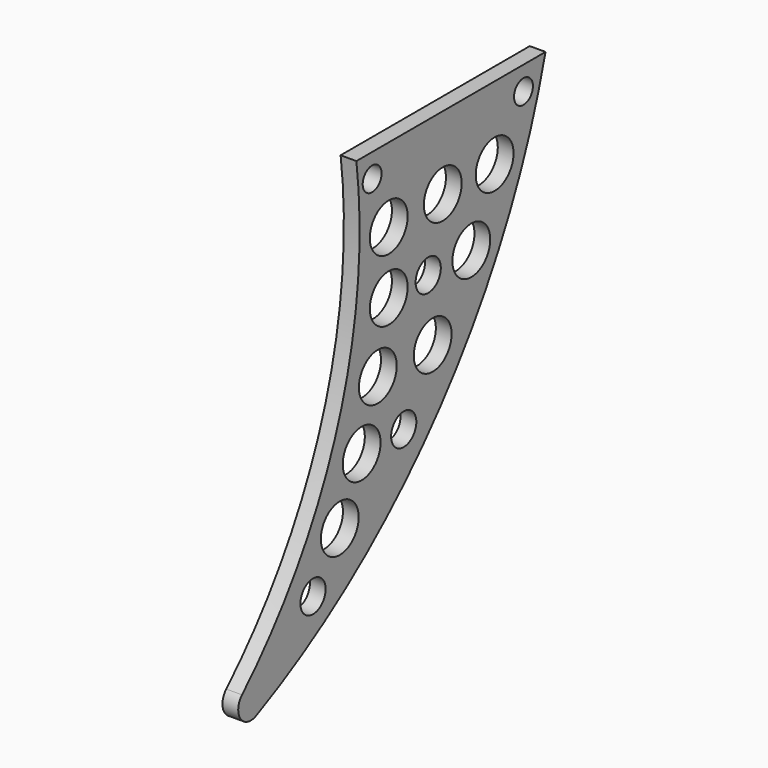
from build123d import *

# Parameters (mm, degrees)
F0_R     = 2
F0_R_2   = 3
F0_R_3   = 1.5
F1_DEPTH = 2
F2_R     = 2


with BuildPart() as f1:
    # F0 (on Right) → F1 (new body)
    with BuildSketch(Plane.YZ):
        with BuildLine():
            Line((13.397178, 15.514113), (-16.602822, 15.514113))
            ThreePointArc((-16.602822, 15.514113), (-21.871293, -18.565402), (-44.546373, -44.546373))
            ThreePointArc((-44.546373, -44.546373), (-7.623699, -22.186785), (13.397178, 15.514113))
        make_face()
        with Locations((-23.479193, -30.309513)):
            Circle(F0_R, mode=Mode.SUBTRACT)
        with Locations((-19.239847, -24.419114)):
            Circle(F0_R_2, mode=Mode.SUBTRACT)
        with Locations((-15.763635, -17.486064)):
            Circle(F0_R_2, mode=Mode.SUBTRACT)
        with Locations((-9.095426, -17.486064)):
            Circle(F0_R, mode=Mode.SUBTRACT)
        with Locations((-13.202822, -9.938937)):
            Circle(F0_R_2, mode=Mode.SUBTRACT)
        with Locations((-4.500001, -9.938937)):
            Circle(F0_R_2, mode=Mode.SUBTRACT)
        with Locations((-11.469045, -1.857538)):
            Circle(F0_R_2, mode=Mode.SUBTRACT)
        with Locations((-5.211322, -1.857538)):
            Circle(F0_R, mode=Mode.SUBTRACT)
        with Locations((1.62532, -1.857538)):
            Circle(F0_R_2, mode=Mode.SUBTRACT)
        with Locations((-11.469045, 6.044718)):
            Circle(F0_R_2, mode=Mode.SUBTRACT)
        with Locations((-2.9, 6.260502)):
            Circle(F0_R_2, mode=Mode.SUBTRACT)
        with Locations((-14.102822, 12.514113)):
            Circle(F0_R_3, mode=Mode.SUBTRACT)
        with Locations((5.325319, 6.260502)):
            Circle(F0_R_2, mode=Mode.SUBTRACT)
        with Locations((9.897178, 12.514113)):
            Circle(F0_R_3, mode=Mode.SUBTRACT)
    extrude(amount=F1_DEPTH)

    # F2
    f2_edges = [f1.edges().sort_by_distance(p)[0] for p in [
        (1, -44.546373, -44.546373),
    ]]
    fillet(f2_edges, radius=F2_R)


solid = f1.part
